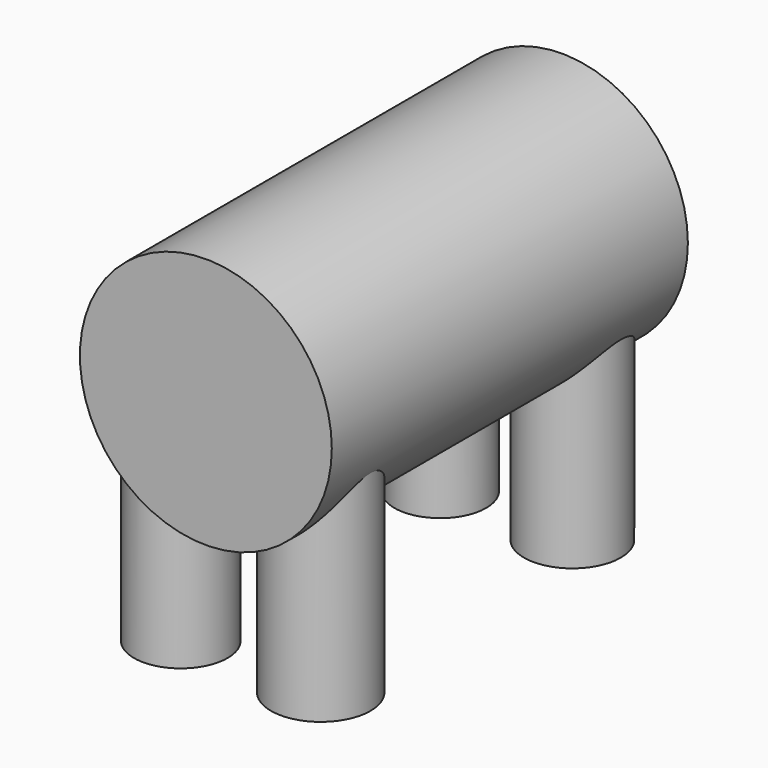
from build123d import *

# Parameters (mm, degrees)
F0_R     = 27.280419
F1_DEPTH = 48.2
F2_R     = 10.134696
F2_R_2   = 10.786727
F2_R_3   = 9.950921
F2_R_4   = 10.48494
F3_DEPTH = 56.1


with BuildPart() as f1:
    # F0 (on Front) → F1 (new body, symmetric)
    with BuildSketch(Plane.XZ):
        Circle(F0_R)
    extrude(amount=F1_DEPTH, both=True)

    # F2 (on Top) → F3 (join)
    with BuildSketch(Plane.XY):
        with Locations((-16.004946, -34.984265)):
            Circle(F2_R)
        with Locations((14.305306, -34.984265)):
            Circle(F2_R_2)
        with Locations((-16.004946, 35.267539)):
            Circle(F2_R_3)
        with Locations((12.605666, 35.267539)):
            Circle(F2_R_4)
    extrude(amount=-F3_DEPTH)


solid = f1.part
